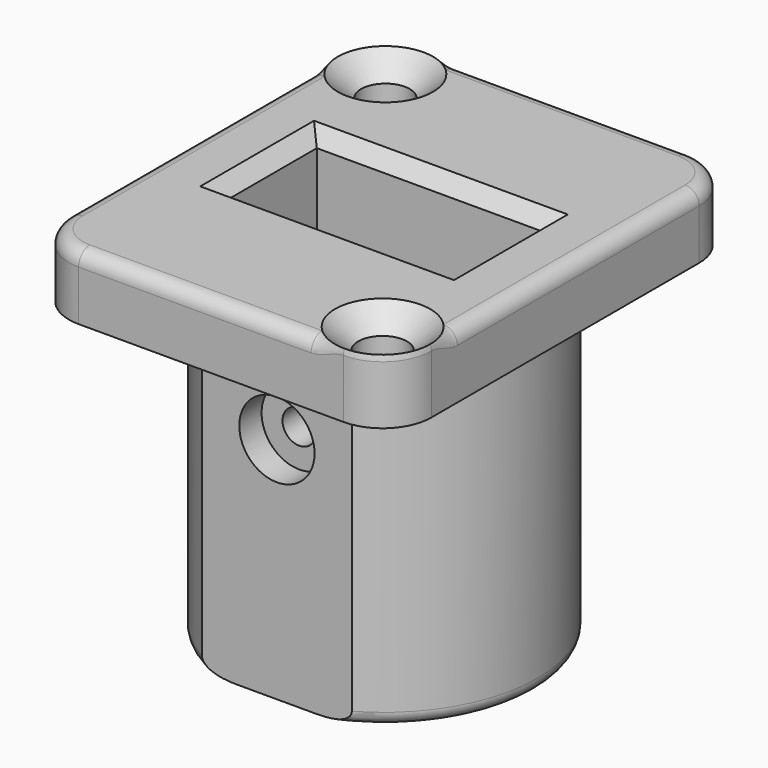
from build123d import *

# Parameters (mm, degrees)
SKETCH_R        = 1.75
PAD_DEPTH       = 4.6
SKETCH001_R     = 11
SKETCH001_W     = 16.2
SKETCH001_H     = 8.2
PAD001_DEPTH    = 23
SKETCH002_W     = 16.2
SKETCH002_H     = 8.2
POCKET_DEPTH    = 4.601
SKETCH003_W     = 0.7
SKETCH003_H     = 3.9
SKETCH003_W_2   = 3.9
SKETCH003_H_2   = 0.7
POCKET001_DEPTH = 15.5
FILLET001_R     = 1
SKETCH004_W     = 10.740578
SKETCH004_H     = 1.4
POCKET002_DEPTH = 22
SKETCH005_R     = 1.2
POCKET003_DEPTH = 25.101
SKETCH006_R     = 2.7
POCKET004_DEPTH = 2
CHAMFER_1_ANGLE = 48
CHAMFER_1_SIZE  = 1.5
CHAMFER_2_ANGLE = 48
CHAMFER_2_SIZE  = 1.5
FILLET_R        = 1
CHAMFER001_SIZE = 1


with BuildPart() as part:
    # Sketch → Pad (new body)
    with BuildSketch(Plane.XY):
        with BuildLine():
            Line((-13, 12), (-13, -12))
            ThreePointArc((-13, -12), (-11.974874, -14.474874), (-9.5, -15.5))
            Line((-9.5, -15.5), (9.5, -15.5))
            ThreePointArc((9.5, -15.5), (11.974874, -14.474874), (13, -12))
            Line((13, -12), (13, 12))
            ThreePointArc((13, 12), (11.974874, 14.474874), (9.5, 15.5))
            Line((9.5, 15.5), (-9.5, 15.5))
            ThreePointArc((-9.5, 15.5), (-11.974874, 14.474874), (-13, 12))
        make_face()
        with Locations((-9.5, 12)):
            Circle(SKETCH_R, mode=Mode.SUBTRACT)
        with Locations((9.5, -12)):
            Circle(SKETCH_R, mode=Mode.SUBTRACT)
    extrude(amount=PAD_DEPTH)

    # Sketch001 → Pad001 (join)
    with BuildSketch(Plane(origin=(0, 0, 0), x_dir=(1, 0, 0), z_dir=(0, 0, -1))):
        Circle(SKETCH001_R)
        Rectangle(SKETCH001_W, SKETCH001_H, mode=Mode.SUBTRACT)
    extrude(amount=PAD001_DEPTH)

    # Sketch002 (on Face19 of Pad001) → Pocket (cut, through all)
    with BuildSketch(Plane(origin=(0, 0, 0), x_dir=(1, 0, 0), z_dir=(0, 0, -1))):
        Rectangle(SKETCH002_W, SKETCH002_H)
    extrude(amount=-POCKET_DEPTH, mode=Mode.SUBTRACT)

    # Sketch003 → Pocket001 (cut)
    with BuildSketch(Plane(origin=(0, 0, -23), x_dir=(1, 0, 0), z_dir=(0, 0, -1))):
        with Locations((-8.45, 0)):
            Rectangle(SKETCH003_W, SKETCH003_H)
        with Locations((-3.8, 4.45)):
            Rectangle(SKETCH003_W_2, SKETCH003_H_2)
        with Locations((3.8, 4.45)):
            Rectangle(SKETCH003_W_2, SKETCH003_H_2)
    extrude(amount=-POCKET001_DEPTH, mode=Mode.SUBTRACT)

    # Fillet001
    fillet001_edges = [part.edges().sort_by_distance(p)[0] for p in [
        (-11, 0, -23),
    ]]
    fillet(fillet001_edges, radius=FILLET001_R)

    # Sketch004 (on Face4 of Fillet001) → Pocket002 (cut)
    with BuildSketch(Plane(origin=(0, 0, -23), x_dir=(1, 0, 0), z_dir=(0, 0, -1))):
        with Locations((0, 10.3)):
            Rectangle(SKETCH004_W, SKETCH004_H)
    extrude(amount=-POCKET002_DEPTH, mode=Mode.SUBTRACT)

    # Sketch005 (on Face3 of Pocket002) → Pocket003 (cut, through all)
    with BuildSketch(Plane.XZ.offset(9.6)):
        with Locations((0, -6.6)):
            Circle(SKETCH005_R)
    extrude(amount=-POCKET003_DEPTH, mode=Mode.SUBTRACT)

    # Sketch006 (on Face2 of Pocket003) → Pocket004 (cut)
    with BuildSketch(Plane.XZ.offset(9.6)):
        with Locations((0, -6.6)):
            Circle(SKETCH006_R)
    extrude(amount=-POCKET004_DEPTH, mode=Mode.SUBTRACT)

    # Chamfer 1
    chamfer_1_edges = [part.edges().sort_by_distance(p)[0] for p in [
        (-11.25, 12, 4.6),
    ]]
    chamfer_1_side = part.faces().sort_by_distance((-11.25, 12, 2.3))[0]
    chamfer(chamfer_1_edges, length=CHAMFER_1_SIZE, angle=CHAMFER_1_ANGLE, reference=chamfer_1_side)

    # Chamfer 2
    chamfer_2_edges = [part.edges().sort_by_distance(p)[0] for p in [
        (7.75, -12, 4.6),
    ]]
    chamfer_2_side = part.faces().sort_by_distance((7.75, -12, 2.3))[0]
    chamfer(chamfer_2_edges, length=CHAMFER_2_SIZE, angle=CHAMFER_2_ANGLE, reference=chamfer_2_side)

    # Fillet
    fillet_edges = [part.edges().sort_by_distance(p)[0] for p in [
        (13, 0, 4.6),
        (0, -15.5, 4.6),
        (-13, 0, 4.6),
        (-11.974874, -14.474874, 4.6),
        (11.974874, 14.474874, 4.6),
        (0, 15.5, 4.6),
        (11.974874, -14.474874, 4.6),
        (-11.974874, 14.474874, 4.6),
    ]]
    fillet(fillet_edges, radius=FILLET_R)

    # Chamfer001
    chamfer001_edges = [part.edges().sort_by_distance(p)[0] for p in [
        (0, -4.1, 4.6),
        (-8.1, 0, 4.6),
        (0, 4.1, 4.6),
        (8.1, 0, 4.6),
    ]]
    chamfer(chamfer001_edges, length=CHAMFER001_SIZE)


solid = part.part
